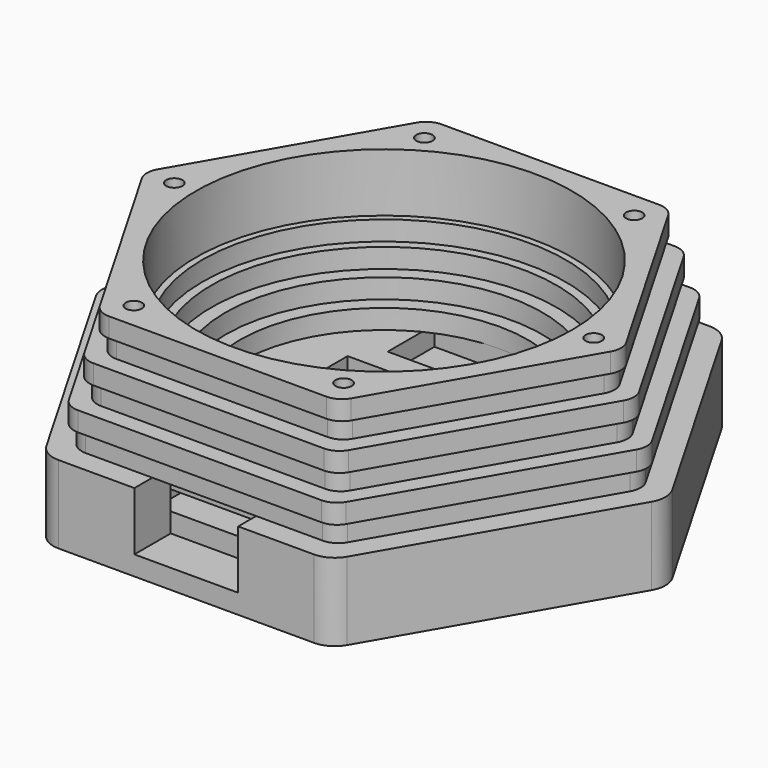
from build123d import *

# Parameters (mm, degrees)
PAD_DEPTH          = 9
SKETCH001_W        = 26.1
SKETCH001_H        = 34.4
POCKET_DEPTH       = 3
SKETCH002_R        = 22.22
PAD001_DEPTH       = 3
SKETCH003_R        = 24.44
PAD002_DEPTH       = 3
SKETCH004_R        = 26.6
PAD003_DEPTH       = 3
SKETCH005_R        = 28
PAD004_DEPTH       = 3
SKETCH006_R        = 29
PAD005_DEPTH       = 3
SKETCH007_R        = 29
PAD006_DEPTH       = 3
SKETCH008_R        = 29
PAD007_DEPTH       = 3
SKETCH009_W        = 17
SKETCH009_H        = 24
POCKET001_DEPTH    = 3
SKETCH010_W        = 16
SKETCH010_H        = 9
POCKET002_DEPTH    = 7
SKETCH011_W        = 20
SKETCH011_H        = 9
POCKET003_DEPTH    = 3
SKETCH012_R        = 1.25
POCKET004_DEPTH    = 270.433943
POLARPATTERN_COUNT = 6
SKETCH013_W        = 3
SKETCH013_H        = 38
POCKET005_DEPTH    = 3
SKETCH014_W        = 3
SKETCH014_H        = 6
POCKET006_DEPTH    = 6
SKETCH015_W        = 10.05
SKETCH015_H        = 6
POCKET007_DEPTH    = 3
FILLET_R           = 4
FILLET001_R        = 3
FILLET002_R        = 3
FILLET003_R        = 3
FILLET004_R        = 3


with BuildPart() as part:
    # Sketch → Pad (new body)
    with BuildSketch(Plane.XY):
        Polygon((44, 0), (22, 38.105118), (-22, 38.105118), (-44, 0), (-22, -38.105118), (22, -38.105118), align=None)
    extrude(amount=PAD_DEPTH)

    # Sketch001 (on Face8 of Pad) → Pocket (cut)
    with BuildSketch(Plane.XY.offset(9)):
        with Locations((0, -13.905118)):
            Rectangle(SKETCH001_W, SKETCH001_H)
    extrude(amount=-POCKET_DEPTH, mode=Mode.SUBTRACT)

    # Sketch002 (on Face5 of Pocket) → Pad001 (join)
    with BuildSketch(Plane.XY.offset(9)):
        Polygon((22, 38.105118), (-22, 38.105118), (-44, 0), (-22, -38.105118), (22, -38.105118), (44, 0), align=None)
        Circle(SKETCH002_R, mode=Mode.SUBTRACT)
    extrude(amount=PAD001_DEPTH)

    # Sketch003 (on Face14 of Pad001) → Pad002 (join)
    with BuildSketch(Plane.XY.offset(12)):
        Polygon((40, 0), (20, 34.641016), (-20, 34.641016), (-40, 0), (-20, -34.641016), (20, -34.641016), align=None)
        Circle(SKETCH003_R, mode=Mode.SUBTRACT)
    extrude(amount=PAD002_DEPTH)

    # Sketch004 (on Face21 of Pad002) → Pad003 (join)
    with BuildSketch(Plane.XY.offset(15)):
        Polygon((41, 0), (20.5, 35.507042), (-20.5, 35.507042), (-41, 0), (-20.5, -35.507042), (20.5, -35.507042), align=None)
        Circle(SKETCH004_R, mode=Mode.SUBTRACT)
    extrude(amount=PAD003_DEPTH)

    # Sketch005 (on Face28 of Pad003) → Pad004 (join)
    with BuildSketch(Plane.XY.offset(18)):
        Polygon((19, 32.908965), (-19, 32.908965), (-38, 0), (-19, -32.908965), (19, -32.908965), (38, 0), align=None)
        Circle(SKETCH005_R, mode=Mode.SUBTRACT)
    extrude(amount=PAD004_DEPTH)

    # Sketch006 (on Face35 of Pad004) → Pad005 (join)
    with BuildSketch(Plane.XY.offset(21)):
        Polygon((39, 0), (19.5, 33.774991), (-19.5, 33.774991), (-39, 0), (-19.5, -33.774991), (19.5, -33.774991), align=None)
        Circle(SKETCH006_R, mode=Mode.SUBTRACT)
    extrude(amount=PAD005_DEPTH)

    # Sketch007 (on Face42 of Pad005) → Pad006 (join)
    with BuildSketch(Plane.XY.offset(24)):
        Polygon((36, 0), (18, 31.176915), (-18, 31.176915), (-36, 0), (-18, -31.176915), (18, -31.176915), align=None)
        Circle(SKETCH007_R, mode=Mode.SUBTRACT)
    extrude(amount=PAD006_DEPTH)

    # Sketch008 (on Face49 of Pad006) → Pad007 (join)
    with BuildSketch(Plane.XY.offset(27)):
        Polygon((37, 0), (18.5, 32.04294), (-18.5, 32.04294), (-37, 0), (-18.5, -32.04294), (18.5, -32.04294), align=None)
        Circle(SKETCH008_R, mode=Mode.SUBTRACT)
    extrude(amount=PAD007_DEPTH)

    # Sketch009 (on Face74 of Pad007) → Pocket001 (cut)
    with BuildSketch(Plane.XY.offset(6)):
        with Locations((0, -8.705118)):
            Rectangle(SKETCH009_W, SKETCH009_H)
    extrude(amount=-POCKET001_DEPTH, mode=Mode.SUBTRACT)

    # Sketch010 (on Face12 of Pocket001) → Pocket002 (cut)
    with BuildSketch(Plane.XZ.offset(38.105118)):
        with Locations((0, 7.5)):
            Rectangle(SKETCH010_W, SKETCH010_H)
    extrude(amount=-POCKET002_DEPTH, mode=Mode.SUBTRACT)

    # Sketch011 (on Face40 of Pocket002) → Pocket003 (cut)
    with BuildSketch(Plane.XY.offset(9)):
        with Locations((0, 17.72)):
            Rectangle(SKETCH011_W, SKETCH011_H)
    extrude(amount=-POCKET003_DEPTH, mode=Mode.SUBTRACT)

    # Sketch012 (on Face93 of Pocket003) → Pocket004 (cut, through all)
    with BuildSketch(Plane.XY.offset(30)):
        with Locations((-32.33, 0)):
            Circle(SKETCH012_R)
    pocket004 = extrude(amount=-POCKET004_DEPTH, mode=Mode.SUBTRACT)

    # PolarPattern: Pocket004 ×6 about axis
    polarpattern_axis = Axis((0, 0, 30), (0, 0, 1))
    for i in range(1, POLARPATTERN_COUNT):
        add(pocket004.rotate(polarpattern_axis, i * 360 / POLARPATTERN_COUNT), mode=Mode.SUBTRACT)

    # Sketch013 (on Face45 of PolarPattern) → Pocket005 (cut)
    with BuildSketch(Plane.XY.offset(6)):
        with Locations((-11.55, -12.105118)):
            Rectangle(SKETCH013_W, SKETCH013_H)
    extrude(amount=-POCKET005_DEPTH, mode=Mode.SUBTRACT)

    # Sketch014 (on Face58 of Pocket005) → Pocket006 (cut)
    with BuildSketch(Plane.XY.offset(9)):
        with Locations((-11.55, 6.294882)):
            Rectangle(SKETCH014_W, SKETCH014_H)
    extrude(amount=-POCKET006_DEPTH, mode=Mode.SUBTRACT)

    # Sketch015 (on Face58 of Pocket006) → Pocket007 (cut)
    with BuildSketch(Plane.XY.offset(9)):
        with Locations((-5.025, 6.294882)):
            Rectangle(SKETCH015_W, SKETCH015_H)
    extrude(amount=-POCKET007_DEPTH, mode=Mode.SUBTRACT)

    # Fillet
    fillet_edges = [part.edges().sort_by_distance(p)[0] for p in [
        (22, -38.105118, 4.5),
        (44, 0, 4.5),
        (22, 38.105118, 4.5),
        (-22, 38.105118, 4.5),
        (-44, 0, 4.5),
        (-22, -38.105118, 4.5),
    ]]
    fillet(fillet_edges, radius=FILLET_R)

    # Fillet001
    fillet001_edges = [part.edges().sort_by_distance(p)[0] for p in [
        (20.5, -35.507042, 16.5),
        (41, 0, 16.5),
        (20.5, 35.507042, 16.5),
        (-20.5, 35.507042, 16.5),
        (-41, 0, 16.5),
        (-20.5, -35.507042, 16.5),
    ]]
    fillet(fillet001_edges, radius=FILLET001_R)

    # Fillet002
    fillet002_edges = [part.edges().sort_by_distance(p)[0] for p in [
        (19.5, -33.774991, 22.5),
        (-19.5, -33.774991, 22.5),
        (-39, 0, 22.5),
        (-19.5, 33.774991, 22.5),
        (19.5, 33.774991, 22.5),
        (39, 0, 22.5),
    ]]
    fillet(fillet002_edges, radius=FILLET002_R)

    # Fillet003
    fillet003_edges = [part.edges().sort_by_distance(p)[0] for p in [
        (-18.5, -32.04294, 28.5),
        (18.5, -32.04294, 28.5),
        (37, 0, 28.5),
        (-37, 0, 28.5),
        (18.5, 32.04294, 28.5),
        (-18.5, 32.04294, 28.5),
    ]]
    fillet(fillet003_edges, radius=FILLET003_R)

    # Fillet004
    fillet004_edges = [part.edges().sort_by_distance(p)[0] for p in [
        (-20, -34.641016, 13.5),
        (20, -34.641016, 13.5),
        (40, 0, 13.5),
        (-40, 0, 13.5),
        (-38, 0, 19.5),
        (-19, -32.908965, 19.5),
        (19, -32.908965, 19.5),
        (38, 0, 19.5),
        (36, 0, 25.5),
        (18, -31.176915, 25.5),
        (-18, -31.176915, 25.5),
        (-36, 0, 25.5),
        (18, 31.176915, 25.5),
        (-18, 31.176915, 25.5),
        (-19, 32.908965, 19.5),
        (-20, 34.641016, 13.5),
        (20, 34.641016, 13.5),
        (19, 32.908965, 19.5),
    ]]
    fillet(fillet004_edges, radius=FILLET004_R)


solid = part.part
